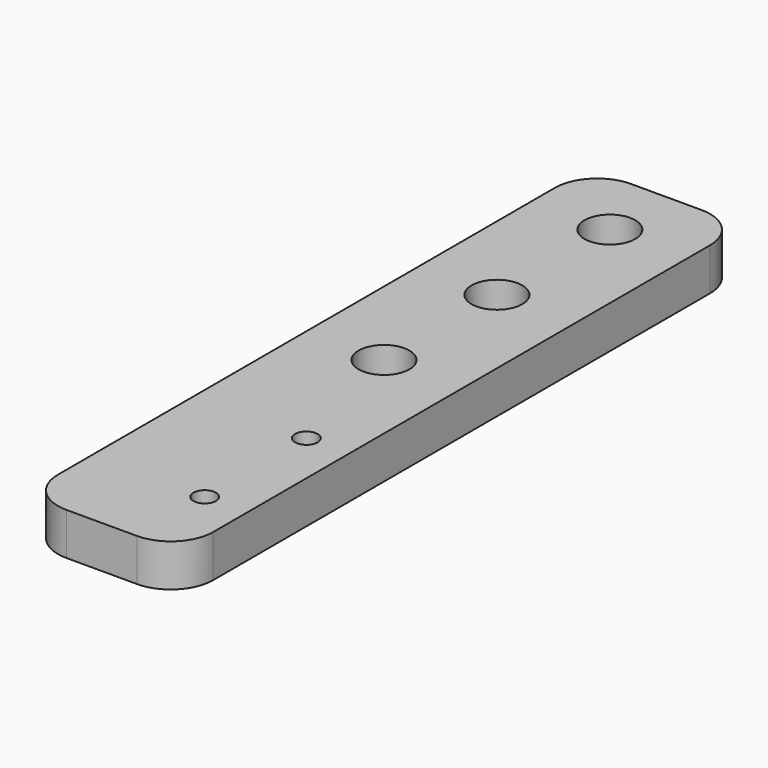
from build123d import *

# Parameters (mm, degrees)
CYLINDER115_R       = 1.8
CYLINDER115_DEPTH   = 10
ARRAY001018_Y_COUNT = 3
ARRAY001018_Y_PITCH = 10
CYLINDER034_R       = 0.8
CYLINDER034_DEPTH   = 30
ARRAY001017_Y_COUNT = 2
ARRAY001017_Y_PITCH = 9
BOX013_W            = 11
BOX013_H            = 50
BOX013_DEPTH        = 3
FILLET006_R         = 3


with BuildPart() as bolt_hole_array:
    # Cylinder115 → Cylinder115 (new body)
    with BuildSketch(Plane.XY):
        Circle(CYLINDER115_R)
    extrude(amount=CYLINDER115_DEPTH)

    # Array001018 Y: bolt hole array ×3


with BuildPart() as bolt_hole_array_1:
    add(bolt_hole_array.part)
    with Locations(*[(0, i * ARRAY001018_Y_PITCH, 0) for i in range(1, ARRAY001018_Y_COUNT)]):
        add(bolt_hole_array.part)


with BuildPart() as bolt_hole_array_2:
    # Array001018 placement: moved
    add(bolt_hole_array_1.part.moved(Location((5.5, 25, 0))))


with BuildPart() as endstop_hole_fusion:
    # Cylinder034 → Cylinder034 (new body)
    with BuildSketch(Plane.XY):
        Circle(CYLINDER034_R)
    extrude(amount=CYLINDER034_DEPTH)

    # Array001017 Y: endstop hole fusion ×2


with BuildPart() as endstop_hole_fusion_1:
    add(endstop_hole_fusion.part)
    with Locations(*[(0, i * ARRAY001017_Y_PITCH, 0) for i in range(1, ARRAY001017_Y_COUNT)]):
        add(endstop_hole_fusion.part)


with BuildPart() as endstop_hole_fusion_2:
    # Array001017 placement: moved
    add(endstop_hole_fusion_1.part.moved(Location((8, 6, 0))))

    # Fusion015: union bolt hole array
    add(bolt_hole_array_2.part)


with BuildPart() as endstop_base_cut:
    # Box013 → Box013 (new body)
    with BuildSketch(Plane.XY):
        with Locations((5.5, 25)):
            Rectangle(BOX013_W, BOX013_H)
    extrude(amount=BOX013_DEPTH)

    # Fillet006
    fillet006_edges = [endstop_base_cut.edges().sort_by_distance(p)[0] for p in [
        (0, 0, 1.5),
        (0, 50, 1.5),
        (11, 0, 1.5),
        (11, 50, 1.5),
    ]]
    fillet(fillet006_edges, radius=FILLET006_R)

    # Cut010: cut endstop hole fusion
    add(endstop_hole_fusion_2.part, mode=Mode.SUBTRACT)


solid = endstop_base_cut.part
